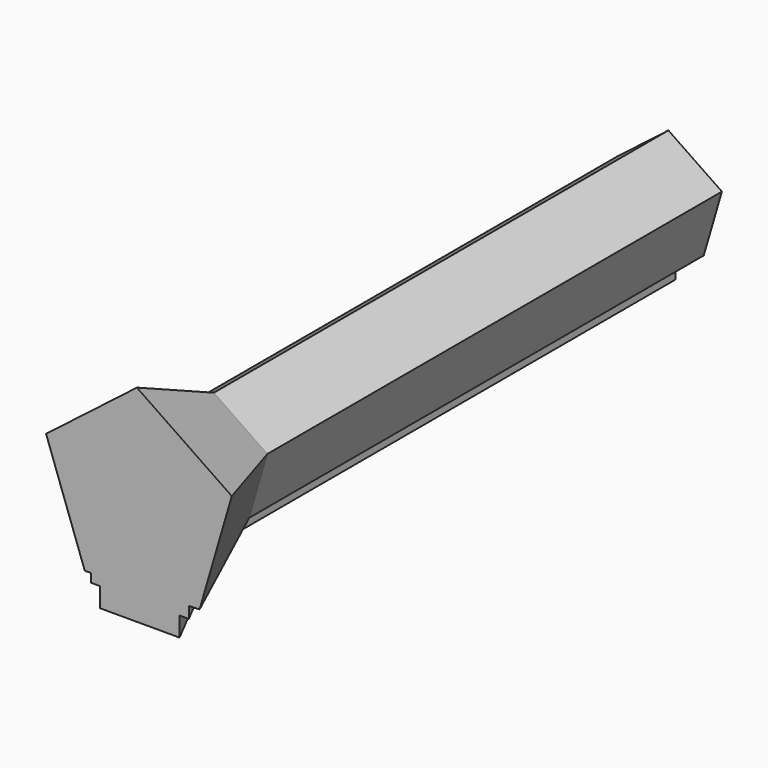
from build123d import *

# Parameters (mm, degrees)
F1_DEPTH = 150
F2_DEPTH = 25
F2_TAPER = -20


with BuildPart() as f1:
    # F0 (on Front) → F1 (new body)
    with BuildSketch(Plane.XZ):
        Polygon((-0.4338717465, 24.399797494), (-13.9581263065, 13.9433988455), (-8.1927247302, -2.1501364642), (-3.8462013472, -2.020396331), (3.8462013472, -1.7907844638), (8.8947439628, -1.6400896363), (13.6899788204, 14.7686719489), align=None)
        Polygon((3.8462013472, -1.7907844638), (-3.8462013472, -2.020396331), (-3.8462013472, -4.5691458424), (-1.3902849751, -4.5691458424), (-1.3902849751, -9.7131561403), (0, -9.7131561403), (1.3902849751, -9.7131561403), (1.3902849751, -4.5691458424), (3.8462013472, -4.5691458424), align=None)
    extrude(amount=F1_DEPTH)

    # F1_face (on face) → F2 (join)
    with BuildSketch(Plane(origin=(0.0021061426, -150, 8.9125586463), x_dir=(1, 0, 0), z_dir=(0, -1, 0))):
        Polygon((-8.1948308728, -11.0626951105), (-3.8483074898, -10.9329549773), (-3.8483074898, -13.4817044887), (-1.3923911176, -13.4817044887), (-1.3923911176, -18.6257147866), (1.3881788325, -18.6257147866), (1.3881788325, -13.4817044887), (3.8440952046, -13.4817044887), (3.8440952046, -10.7033431101), (8.8926378202, -10.5526482826), (13.6878726779, 5.8561133027), (-0.4359778891, 15.4872388477), (-13.9602324491, 5.0308401992), align=None)
    extrude(amount=F2_DEPTH, taper=F2_TAPER)


solid = f1.part
